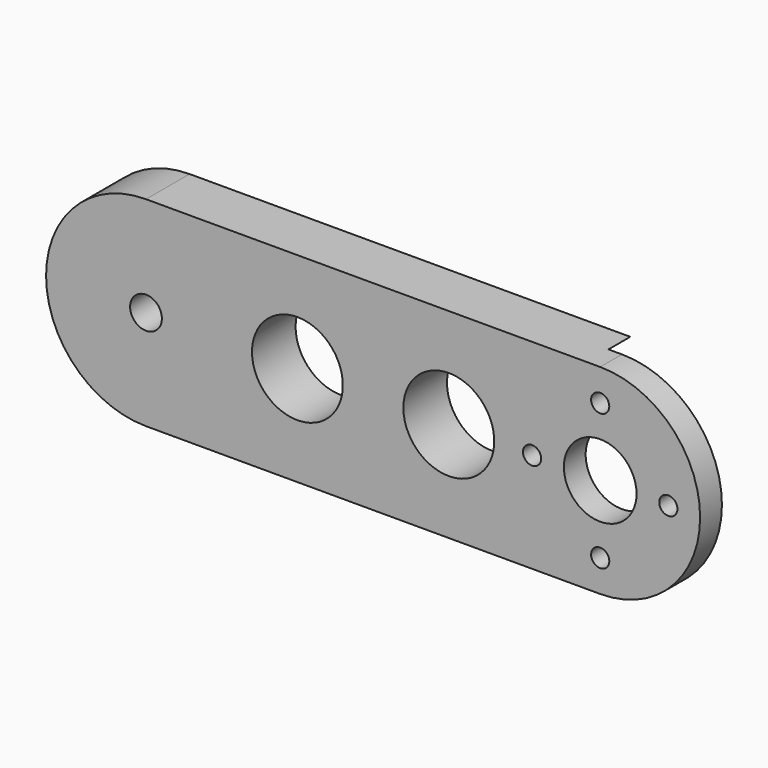
from build123d import *

# Parameters (mm, degrees)
CYLINDER020_R             = 11.1
CYLINDER020_DEPTH         = 26
CYLINDER019_R             = 4
CYLINDER019_DEPTH         = 43
CYLINDER021_R             = 1
CYLINDER021_DEPTH         = 31
CYLINDER024_R             = 1
CYLINDER024_DEPTH         = 31
CYLINDER023_R             = 1
CYLINDER023_DEPTH         = 31
CYLINDER022_R             = 1
CYLINDER022_DEPTH         = 31
FUSION002_ROLL_ANGLE      = -90
FUSION003_PLACEMENT_ANGLE = 180
SKETCH_R                  = 5
SKETCH_R_2                = 1.75
PAD_DEPTH                 = 6
CUT_PITCH_ANGLE           = 90


with BuildPart() as cylinder141:
    # Cylinder020 → Cylinder020 (new body)
    with BuildSketch(Plane(origin=(-3, 71, 73), x_dir=(0, 0, 1), z_dir=(0, -1, 0))):
        Circle(CYLINDER020_R)
    extrude(amount=CYLINDER020_DEPTH)


with BuildPart() as fusion001:
    # Cylinder019 → Cylinder019 (new body)
    with BuildSketch(Plane(origin=(-3, 66, 73), x_dir=(0, 0, 1), z_dir=(0, -1, 0))):
        Circle(CYLINDER019_R)
    extrude(amount=CYLINDER019_DEPTH)

    # Fusion001: union Cylinder141
    add(cylinder141.part)


with BuildPart() as cylinder096:
    # Cylinder021 → Cylinder021 (new body)
    with BuildSketch(Plane(origin=(-7.5, -11, 132), x_dir=(1, 0, 0), z_dir=(0, 0, 1))):
        Circle(CYLINDER021_R)
    extrude(amount=CYLINDER021_DEPTH)


with BuildPart() as cylinder146:
    # Cylinder024 → Cylinder024 (new body)
    with BuildSketch(Plane(origin=(0, -3.5, 132), x_dir=(1, 0, 0), z_dir=(0, 0, 1))):
        Circle(CYLINDER024_R)
    extrude(amount=CYLINDER024_DEPTH)


with BuildPart() as cylinder145:
    # Cylinder023 → Cylinder023 (new body)
    with BuildSketch(Plane(origin=(7.5, -11, 132), x_dir=(1, 0, 0), z_dir=(0, 0, 1))):
        Circle(CYLINDER023_R)
    extrude(amount=CYLINDER023_DEPTH)


with BuildPart() as fusion003:
    # Cylinder022 → Cylinder022 (new body)
    with BuildSketch(Plane(origin=(0, -18.5, 132), x_dir=(1, 0, 0), z_dir=(0, 0, 1))):
        Circle(CYLINDER022_R)
    extrude(amount=CYLINDER022_DEPTH)

    # Fusion002: union Cylinder096, Cylinder146, Cylinder145
    add(cylinder096.part)
    add(cylinder146.part)
    add(cylinder145.part)


with BuildPart() as fusion003_1:
    # Fusion002 roll: moved
    add(fusion003.part.rotate(Axis((0, 0, 0), (1, 0, 0)), FUSION002_ROLL_ANGLE))


with BuildPart() as fusion003_2:
    # Fusion002 placement: moved
    add(fusion003_1.part.moved(Location((-3, -97.5, 62))))

    # Fusion003: union Fusion001
    add(fusion001.part)


with BuildPart() as fusion003_3:
    # Fusion003 placement: moved
    add(fusion003_2.part.moved(Location((-0.5, 88, -87))).rotate(Axis((-0.5, 88, -87), (0, 0, 1)), FUSION003_PLACEMENT_ANGLE))


with BuildPart() as clone_of_cut:
    # Sketch → Pad (new body)
    with BuildSketch(Plane(origin=(-11.5, 40, -16.5), x_dir=(0, 0, -1), z_dir=(0, 1, 0))):
        with BuildLine():
            Line((-2.5, -3), (47.5, -3))
            ThreePointArc((47.5, -25), (58.5, -14), (47.5, -3))
            Line((-2.5, -25), (47.5, -25))
            ThreePointArc((-2.5, -3), (-13.5, -14), (-2.5, -25))
        make_face()
        with Locations((14.166667, -14)):
            Circle(SKETCH_R, mode=Mode.SUBTRACT)
        with Locations((30.833333, -14)):
            Circle(SKETCH_R, mode=Mode.SUBTRACT)
        with Locations((47.5, -14)):
            Circle(SKETCH_R_2, mode=Mode.SUBTRACT)
    extrude(amount=PAD_DEPTH)

    # Cut: cut Fusion003
    add(fusion003_3.part, mode=Mode.SUBTRACT)


with BuildPart() as clone_of_cut_1:
    # Cut pitch: moved
    add(clone_of_cut.part.rotate(Axis((0, 0, 0), (0, 1, 0)), CUT_PITCH_ANGLE))


with BuildPart() as clone_of_cut_2:
    # Cut placement: moved
    add(clone_of_cut_1.part.moved(Location((16.5, -87, -15))))


with BuildPart() as clone_of_cut_3:
    # Clone010 placement: moved
    add(clone_of_cut_2.part.moved(Location((0, 0, -22.5))))


with BuildPart() as part_mirroring026:
    # Part__Mirroring026: instance of Clone of Cut
    add(clone_of_cut_3.part.mirror(Plane(origin=(0, 0, 0), x_dir=(1, 0, 0), z_dir=(0, 1, 0))))


solid = part_mirroring026.part
